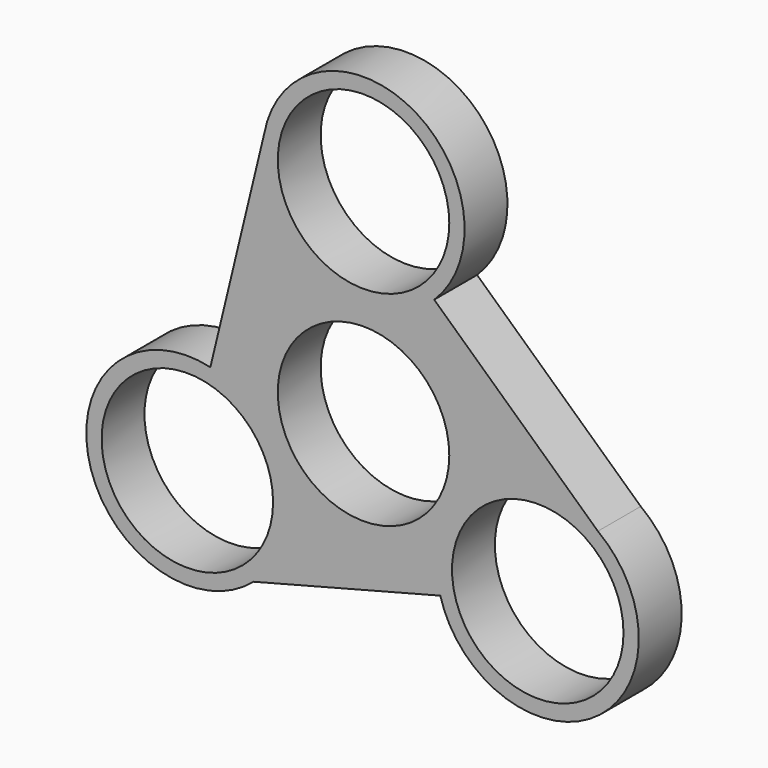
from build123d import *

# Parameters (mm, degrees)
F0_R     = 11.2
F1_DEPTH = 7


with BuildPart() as f1:
    # F0 (on Front) → F1 (new body)
    with BuildSketch(Plane.XZ):
        with BuildLine():
            Line((30.609758, -2.393342), (9.231073, 17.274573))
            ThreePointArc((9.231073, 17.274573), (6.224822, 38.350085), (-12.972782, 29.148631))
            Line((-12.972782, 29.148631), (-20.007871, 0))
            ThreePointArc((-20.007871, 0), (-35.829886, -16.014885), (-14.374704, -22.833085))
            Line((-14.374704, -22.833085), (10.027457, -16.50023))
            ThreePointArc((10.027457, -16.50023), (30.218147, -23.89046), (30.609758, -2.393342))
        make_face()
        with Locations((-23.014148, -12.853105)):
            Circle(F0_R, mode=Mode.SUBTRACT)
        with Locations((22.75558, -13.002389)):
            Circle(F0_R, mode=Mode.SUBTRACT)
        Circle(F0_R, mode=Mode.SUBTRACT)
        with Locations((0, 26.71)):
            Circle(F0_R, mode=Mode.SUBTRACT)
    extrude(amount=F1_DEPTH)


solid = f1.part
